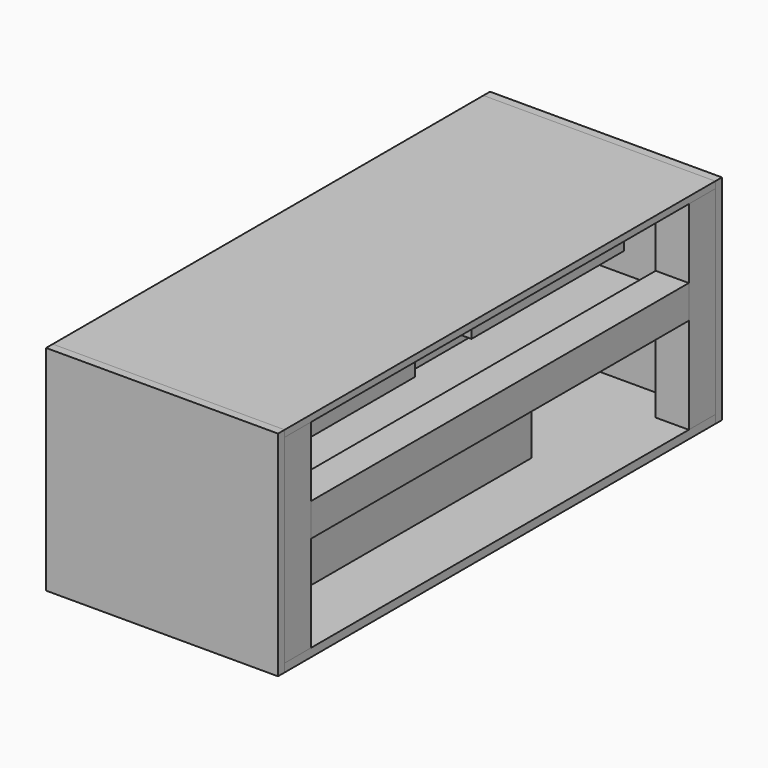
from build123d import *

# Parameters (mm, degrees)
F1_W      = 140
F1_H      = 325
F2_DEPTH  = 4
F0_W      = 20
F0_H      = 20
F3_DEPTH  = 120
F6_DEPTH  = 4
F7_W      = 55
F7_H      = 115
F8_DEPTH  = 32
F9_W      = 99
F9_H      = 175
F10_DEPTH = 49
F12_W     = 99
F12_H     = 97
F13_DEPTH = 25
F14_W     = 85
F14_H     = 57
F15_DEPTH = 22
F16_W     = 140
F16_H     = 325
F17_DEPTH = 5
F20_W     = 140
F20_H     = 129
F21_DEPTH = 5
F22_W     = 140
F22_H     = 129
F23_DEPTH = 5
F24_W     = 67
F24_H     = 135
F25_DEPTH = 67
F26_DEPTH = 20
F27_W     = 20
F27_H     = 20
F28_DEPTH = 285


with BuildPart() as f2:
    # F1 (on Top) → F2 (new body)
    with BuildSketch(Plane.XY):
        Rectangle(F1_W, F1_H)
    extrude(amount=F2_DEPTH)


with BuildPart() as f3:
    # F0 (on Top) → F3 (new body)
    with BuildSketch(Plane.XY):
        with Locations((60, -152.5)):
            Rectangle(F0_W, F0_H)
        with Locations((-60, -152.5)):
            Rectangle(F0_W, F0_H)
        with Locations((-60, 152.5)):
            Rectangle(F0_W, F0_H)
        with Locations((60, 152.5)):
            Rectangle(F0_W, F0_H)
    extrude(amount=-F3_DEPTH)

    # F18 (on face) → F26 (join)
    with BuildSketch(Plane(origin=(-70, 0, 0), x_dir=(0, -1, 0), z_dir=(-1, 0, 0))):
        Polygon((-142.5, -50), (-122.5, -50), (-142.5, -30), align=None)
        Polygon((122.5, -50), (142.5, -50), (142.5, -30), align=None)
    extrude(amount=-F26_DEPTH)


with BuildPart() as f6:
    # F5 (on offset) → F6 (new body)
    with BuildSketch(Plane.XY.offset(-50)):
        Polygon((50, -142.5), (70, -142.5), (70, 142.5), (50, 142.5), (-50, 142.5), (-70, 142.5), (-70, -142.5), (-50, -142.5), align=None)
    extrude(amount=-F6_DEPTH)


with BuildPart() as f8:
    # F7 (on face) → F8 (new body)
    with BuildSketch(Plane(origin=(0, 0, 0), x_dir=(1, 0, 0), z_dir=(0, 0, -1))):
        with Locations((10.1671721786, -76.4473453164)):
            Rectangle(F7_W, F7_H)
    extrude(amount=F8_DEPTH)


with BuildPart() as f10:
    # F9 (on face) → F10 (new body)
    with BuildSketch(Plane(origin=(0, 0, -54), x_dir=(1, 0, 0), z_dir=(0, 0, -1))):
        with Locations((0.9796765745, 39.2495542765)):
            Rectangle(F9_W, F9_H)
    extrude(amount=F10_DEPTH)


with BuildPart() as f13:
    # F12 (on face) → F13 (new body)
    with BuildSketch(Plane(origin=(0, 0, 0), x_dir=(1, 0, 0), z_dir=(0, 0, -1))):
        with Locations((0, 87.1308669448)):
            Rectangle(F12_W, F12_H)
    extrude(amount=F13_DEPTH)


with BuildPart() as f15:
    # F14 (on face) → F15 (new body)
    with BuildSketch(Plane(origin=(0, 0, -54), x_dir=(1, 0, 0), z_dir=(0, 0, -1))):
        with Locations((0, -93.3456495404)):
            Rectangle(F14_W, F14_H)
    extrude(amount=F15_DEPTH)


with BuildPart() as f17:
    # F16 (on face) → F17 (new body)
    with BuildSketch(Plane(origin=(0, 0, -120), x_dir=(1, 0, 0), z_dir=(0, 0, -1))):
        Rectangle(F16_W, F16_H)
    extrude(amount=F17_DEPTH)


with BuildPart() as f21:
    # F20 (on face) → F21 (new body)
    with BuildSketch(Plane(origin=(0, 162.5, 0), x_dir=(-1, 0, 0), z_dir=(0, 1, 0))):
        with Locations((0, -60.5)):
            Rectangle(F20_W, F20_H)
    extrude(amount=F21_DEPTH)


with BuildPart() as f23:
    # F22 (on face) → F23 (new body)
    with BuildSketch(Plane.XZ.offset(162.5)):
        with Locations((0, -60.5)):
            Rectangle(F22_W, F22_H)
    extrude(amount=F23_DEPTH)


with BuildPart() as f25:
    # F24 (on face) → F25 (new body)
    with BuildSketch(Plane(origin=(0, 0, 0), x_dir=(1, 0, 0), z_dir=(0, 0, -1))):
        with Locations((-19.0840058278, -61.4962626398)):
            Rectangle(F24_W, F24_H)
    extrude(amount=F25_DEPTH)


with BuildPart() as f28:
    # F27 (on face) → F28 (new body, through all)
    with BuildSketch(Plane(origin=(0, -142.5, 0), x_dir=(-1, 0, 0), z_dir=(0, 1, 0))):
        with Locations((-60, -52)):
            Rectangle(F27_W, F27_H)
    extrude(amount=F28_DEPTH)


solid = Compound([f2.part, f3.part, f6.part, f8.part, f10.part, f13.part, f15.part, f17.part, f21.part, f23.part, f25.part, f28.part])
